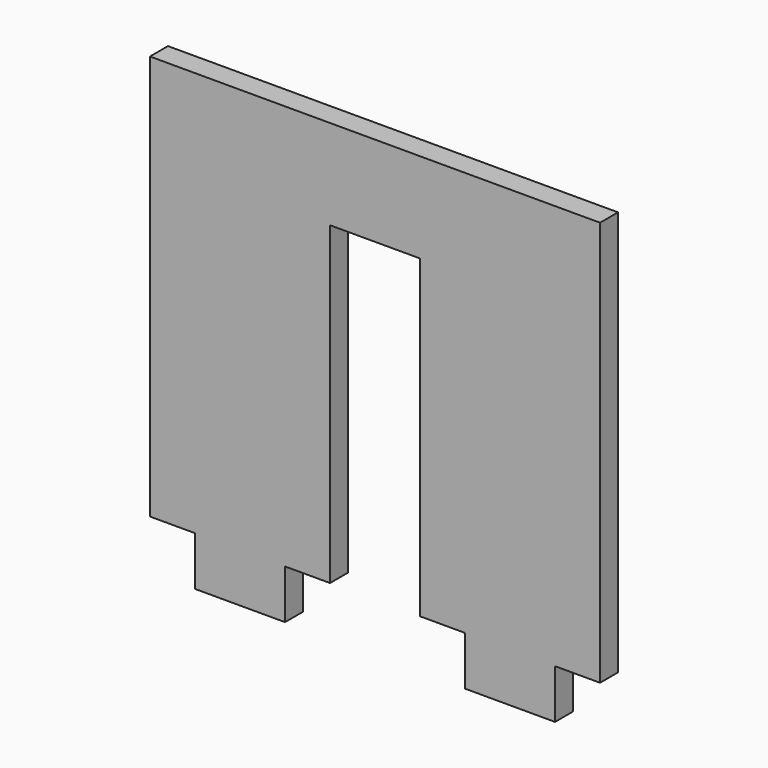
from build123d import *

# Parameters (mm, degrees)
F1_DEPTH = 25.4


with BuildPart() as f1:
    # F0 (on Front) → F1 (new body)
    with BuildSketch(Plane.XZ):
        Polygon((234.730576, 318.289215), (-134.188228, 318.289215), (-273.269424, 318.289215), (-273.269424, -138.910785), (-222.469424, -138.910785), (-222.469424, -194.307539), (-120.869424, -194.307539), (-120.869424, -138.910785), (-70.069424, -138.910785), (-70.069424, 216.689215), (31.530576, 216.689215), (31.530576, -138.910785), (82.330576, -138.910785), (82.330576, -194.307539), (183.930576, -194.307539), (183.930576, -138.910785), (234.730576, -138.910785), align=None)
    extrude(amount=F1_DEPTH)


solid = f1.part
